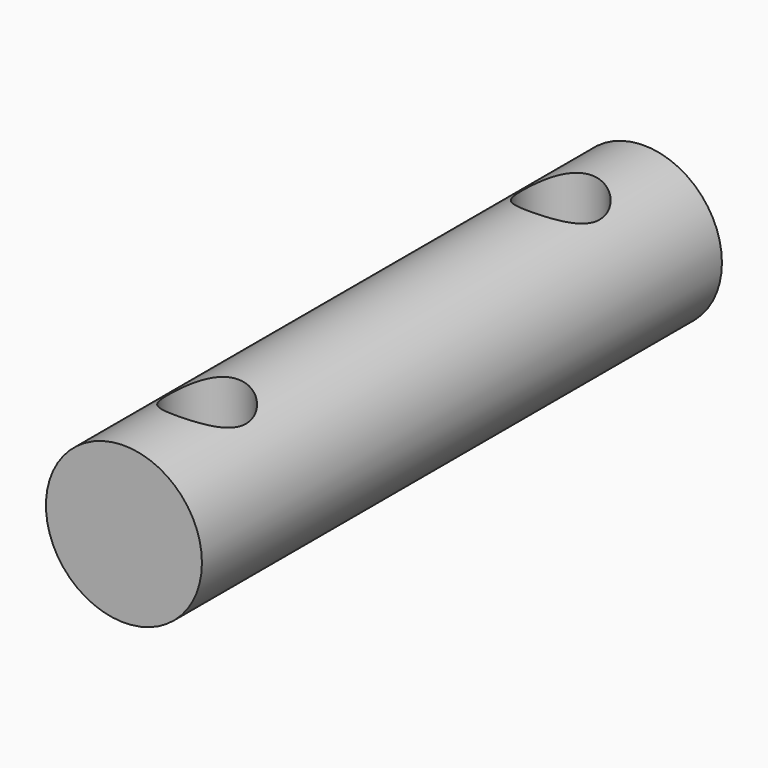
from build123d import *

# Parameters (mm, degrees)
F0_R     = 3
F1_DEPTH = 25
F2_R     = 1.5
F3_DEPTH = 5


with BuildPart() as f1:
    # F0 (on Front) → F1 (new body)
    with BuildSketch(Plane.XZ):
        Circle(F0_R)
    extrude(amount=F1_DEPTH)

    # F2 (on Top) → F3 (cut, symmetric)
    with BuildSketch(Plane.XY):
        with Locations((0, -4)):
            Circle(F2_R)
        with Locations((0, -21)):
            Circle(F2_R)
    extrude(amount=F3_DEPTH, both=True, mode=Mode.SUBTRACT)


solid = f1.part
